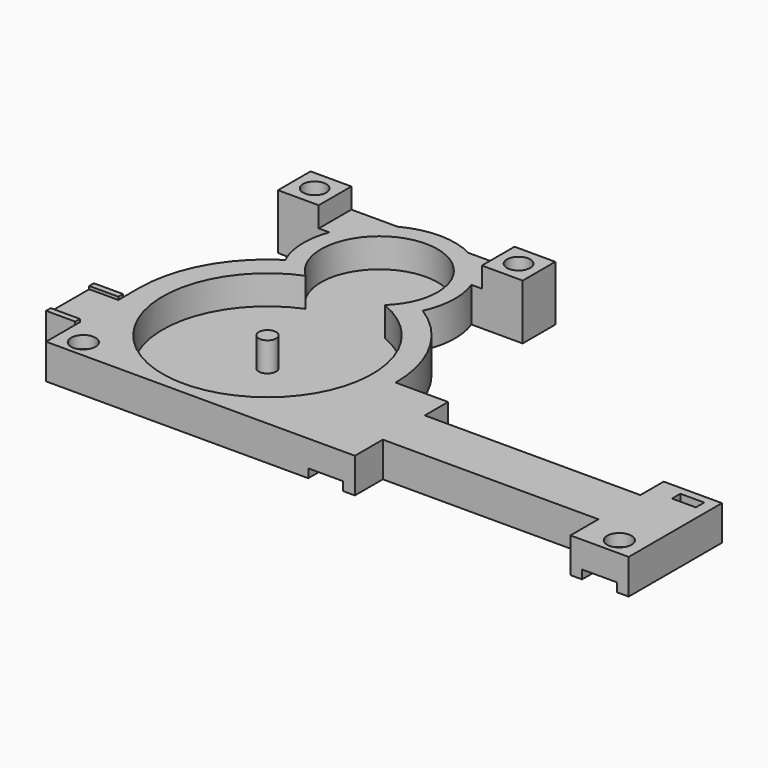
from build123d import *

# Parameters (mm, degrees)
SKETCH016_R     = 2
PAD012_DEPTH    = 6
SKETCH001_R     = 1.5
POCKET_DEPTH    = 5
SKETCH010_W     = 6
SKETCH010_H     = 1.5
POCKET009_DEPTH = 20
SKETCH017_R     = 2.1
SKETCH017_W     = 4.1
SKETCH017_H     = 1.8
POCKET010_DEPTH = 2.1
PAD013_DEPTH    = 5
SKETCH_W        = 7
SKETCH_H        = 7
SKETCH_R        = 2
PAD014_DEPTH    = 3.5
SKETCH020_R     = 2.1
SKETCH020_W     = 4.1
SKETCH020_H     = 1.8
POCKET017_DEPTH = 2.1


with BuildPart() as part:
    # Sketch016 → Pad012 (new body)
    with BuildSketch(Plane.XY):
        with BuildLine():
            Line((0, 0), (0, 20))
            ThreePointArc((10.1918, 38.5625), (2.715545, 30.588192), (0, 20))
            ThreePointArc((9.803689, 48.5), (9.009903, 43.49267), (10.1918, 38.5625))
            Line((9.803689, 48.5), (1, 48.5))
            Line((1, 48.5), (1, 55.5))
            Line((1, 55.5), (15.937822, 55.5))
            ThreePointArc((28.062178, 55.5), (22, 57), (15.937822, 55.5))
            Line((43, 55.5), (28.062178, 55.5))
            Line((43, 55.5), (43, 48.5))
            Line((34.196311, 48.5), (43, 48.5))
            ThreePointArc((33.8082, 38.5625), (34.990097, 43.49267), (34.196311, 48.5))
            ThreePointArc((44, 20), (41.284455, 30.588191), (33.8082, 38.5625))
            Line((53, 20), (44, 20))
            Line((53, 15), (53, 20))
            Line((90, 15), (53, 15))
            Line((90, 20), (90, 15))
            Line((100, 20), (90, 20))
            Line((100, 0), (100, 20))
            Line((90, 0), (100, 0))
            Line((90, 6), (90, 0))
            Line((53, 6), (90, 6))
            Line((53, 0), (53, 6))
            Line((0, 0), (53, 0))
        make_face()
        with Locations((4.5, 52)):
            Circle(SKETCH016_R, mode=Mode.SUBTRACT)
        with Locations((39.5, 52)):
            Circle(SKETCH016_R, mode=Mode.SUBTRACT)
    extrude(amount=PAD012_DEPTH)

    # Sketch001 → Pocket (cut)
    with BuildSketch(Plane.XY.offset(6)):
        with BuildLine():
            ThreePointArc((28.798693, 36.666667), (22, 54), (15.201307, 36.666667))
            ThreePointArc((15.201307, 36.666667), (22, 2), (28.798693, 36.666667))
        make_face()
        with Locations((22, 20)):
            Circle(SKETCH001_R, mode=Mode.SUBTRACT)
    extrude(amount=-POCKET_DEPTH, mode=Mode.SUBTRACT)

    # Sketch010 → Pocket009 (cut)
    with BuildSketch(Plane.XZ):
        with Locations((48, 0.75)):
            Rectangle(SKETCH010_W, SKETCH010_H)
        with Locations((95, 0.75)):
            Rectangle(SKETCH010_W, SKETCH010_H)
    extrude(amount=-POCKET009_DEPTH, mode=Mode.SUBTRACT)

    # Sketch017 → Pocket010 (cut)
    with BuildSketch(Plane(origin=(0, 0, 0), x_dir=(1, 0, 0), z_dir=(0, 0, -1))):
        with Locations((4, 3)):
            Circle(SKETCH017_R)
        with Locations((96, 3)):
            Circle(SKETCH017_R)
        with Locations((96, 17.75)):
            Rectangle(SKETCH017_W, SKETCH017_H)
    extrude(amount=-POCKET010_DEPTH, mode=Mode.SUBTRACT)

    # Sketch015 → Pad013 (new body)
    with BuildSketch(Plane(origin=(0, 0, 0), x_dir=(0, -1, 0), z_dir=(-1, 0, 0))):
        Polygon((-16.5, 6.5), (-16.5, 0), (-6.25, 0), (-6.25, 6.5), (-7.25, 6.5), (-7.25, 6), (-15.5, 6), (-15.5, 6.5), align=None)
    extrude(amount=PAD013_DEPTH)

    # Sketch → Pad014 (new body)
    with BuildSketch(Plane.XY.offset(6)):
        with Locations((4.5, 52)):
            Rectangle(SKETCH_W, SKETCH_H)
        with Locations((4.5, 52)):
            Circle(SKETCH_R, mode=Mode.SUBTRACT)
        with Locations((39.5, 52)):
            Rectangle(SKETCH_W, SKETCH_H)
        with Locations((39.5, 52)):
            Circle(SKETCH_R, mode=Mode.SUBTRACT)
    extrude(amount=PAD014_DEPTH)

    # Sketch020 → Pocket017 (cut)
    with BuildSketch(Plane.XY.offset(6)):
        with Locations((4, 3)):
            Circle(SKETCH020_R)
        with Locations((96, 3)):
            Circle(SKETCH020_R)
        with Locations((96, 17.75)):
            Rectangle(SKETCH020_W, SKETCH020_H)
    extrude(amount=-POCKET017_DEPTH, mode=Mode.SUBTRACT)


solid = part.part
